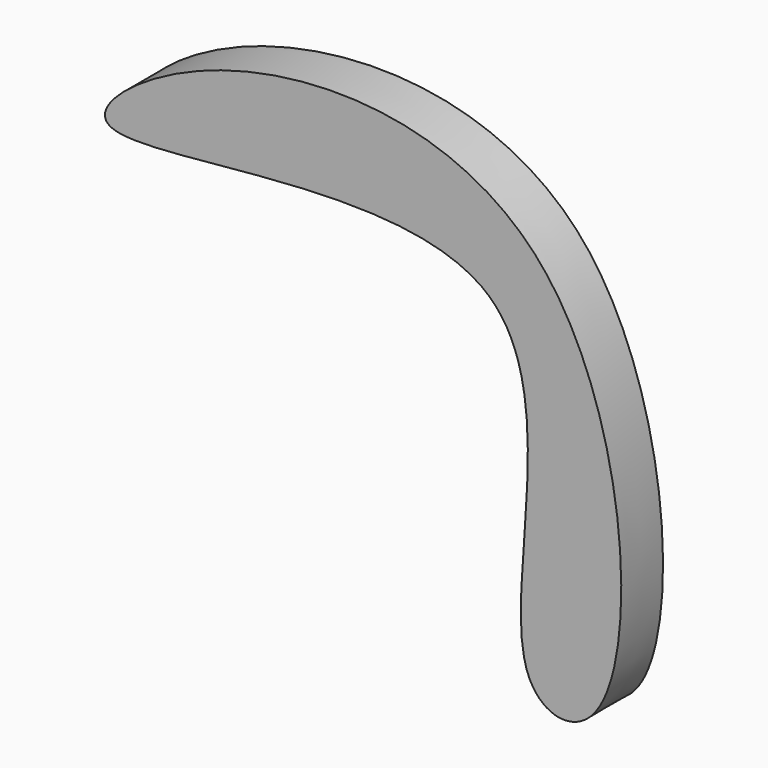
from build123d import *

# Parameters (mm, degrees)
F1_DEPTH = 9.652


with BuildPart() as f1:
    # F0 (on Front) → F1 (new body)
    with BuildSketch(Plane.XZ):
        with BuildLine():
            add(Edge.make_bspline(
                [(-36.0441580415, -32.7604189515), (-26.8450799857, -23.0425723222), (-30.5469947209, 56.8830234013), (-106.9122271994, 55.9969246268), (-143.2949968501, 23.3641928783), (-27.7100286315, 54.6818833493), (-58.2473423529, -32.6330785533), (-39.8526541278, -36.7836896131), (-36.0441580415, -32.7604189515)],
                knots=[0, 0, 0, 0, 0.2072317626, 0.4069043911, 0.5177815994, 0.723532788, 0.9142042983, 1, 1, 1, 1], degree=3))
        make_face()
    extrude(amount=F1_DEPTH)


solid = f1.part
